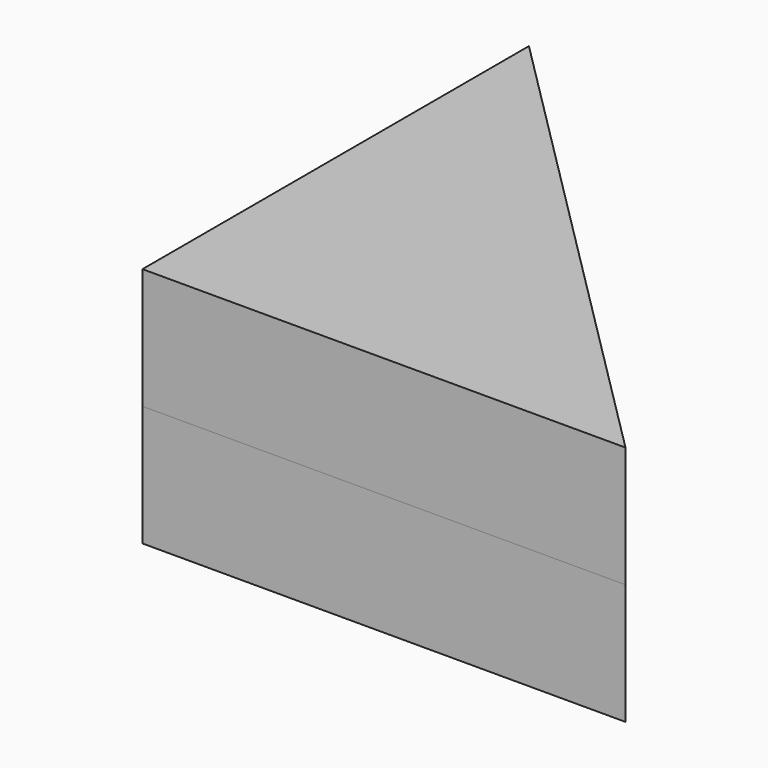
from build123d import *

# Parameters (mm, degrees)
F1_DEPTH = 25


with BuildPart() as f1:
    # F0 (on Top) → F1 (new body)
    with BuildSketch(Plane.XY):
        Polygon((0, 100), (0, 0), (100, 0), align=None)
    extrude(amount=F1_DEPTH)


with BuildPart() as f2_1:
    # F2: copy of F1
    add(f1.part.moved(Location((0, 0, 25))))


solid = Compound([f1.part, f2_1.part])
